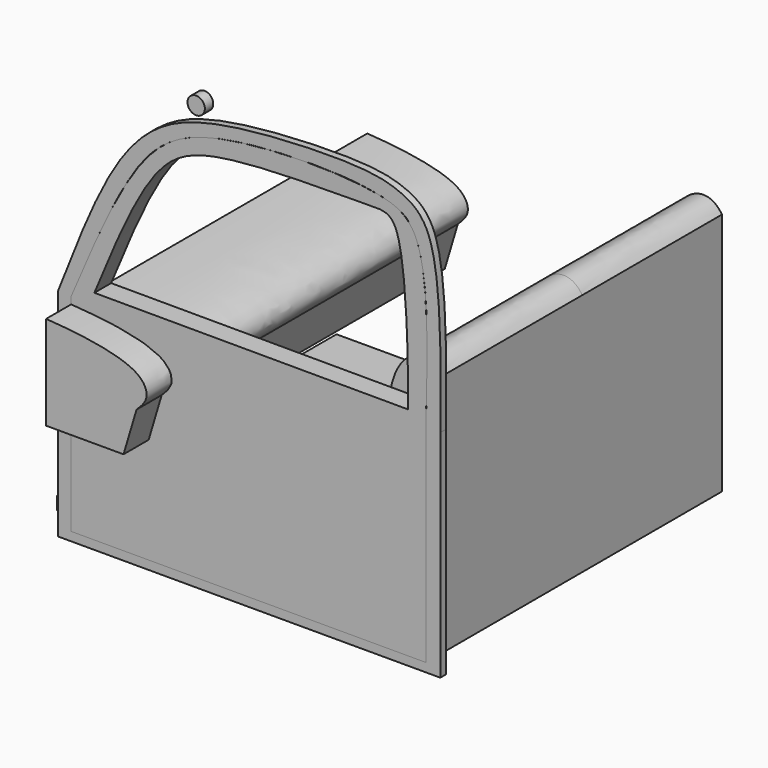
from build123d import *

# Parameters (mm, degrees)
F1_DEPTH = 50
F3_DEPTH = 115
F5_DEPTH = 6
F7_DEPTH = 2
F8_R     = 2.4825689864
F9_DEPTH = 3


with BuildPart() as f1:
    # F0 (on Front) → F1 (new body, symmetric)
    with BuildSketch(Plane.XZ):
        with BuildLine():
            Line((-52.3748546839, -26.5628732741), (-52.3748546839, -30.3173419088))
            Line((-52.3748546839, -30.3173419088), (58.0065622926, -30.3173419088))
            Line((58.0065622926, -30.3173419088), (58.0065622926, 9.8554827273))
            Line((58.0065622926, 9.8554827273), (58.0065622926, 39.5157933235))
            add(Edge.make_bspline(
                [(17.8337320685, -26.5628732741), (12.2987850228, -18.6842330707), (2.0561256493, -4.0935398057), (39.9184715576, -5.3165841483), (44.2737718214, -4.953746865), (37.2323042761, 40.1599145958), (54.5306136351, 44.9857218694), (58.0065622926, 39.5157933235)],
                knots=[0, 0, 0, 0, 0.1616552234, 0.3598685336, 0.4245980156, 0.6623038598, 0.7973775563, 0.7973775563, 0.7973775563, 0.7973775563], degree=3))
            Line((17.8337320685, -26.5628732741), (-52.3748546839, -26.5628732741))
        make_face()
    extrude(amount=F1_DEPTH, both=True)


with BuildPart() as f3:
    # F2 (on face) → F3 (new body)
    with BuildSketch(Plane(origin=(0, 50, 0), x_dir=(-1, 0, 0), z_dir=(0, 1, 0))):
        with BuildLine():
            Line((17.6460072398, 12.4836126342), (21.3691905319, 0))
            Line((21.3691905319, 0), (43.551851064, 0))
            Line((43.551851064, 0), (43.551851064, 26.9383192062))
            add(Edge.make_bspline(
                [(17.6460072398, 12.4836126342), (16.3933606924, 13.7029773667), (13.7509765364, 16.2751554931), (17.0166456197, 24.3596606637), (34.3061298742, 26.3135049454), (43.551851064, 26.9383192062)],
                knots=[0, 0, 0, 0, 0.1536034597, 0.3240174566, 0.6828172606, 0.6828172606, 0.6828172606, 0.6828172606], degree=3))
        make_face()
    extrude(amount=-F3_DEPTH)


with BuildPart() as f5:
    # F4 (on face) → F5 (new body)
    with BuildSketch(Plane.XZ.offset(50)):
        with BuildLine():
            Line((-43.551851064, -30.3173419088), (58.0065622926, -30.3173419088))
            Line((58.0065622926, -30.3173419088), (58.0065622926, 29.003277421))
            add(Edge.make_bspline(
                [(-43.551851064, 29.003277421), (-36.922845047, 44.6592747847), (-25.4385964008, 71.7820992428), (-3.7518062151, 85.038269091), (43.5736062436, 85.5189515045), (59.2989838811, 77.3551079832), (58.5136064736, 47.9727178463), (58.0065622926, 29.003277421)],
                knots=[0, 0, 0, 0, 0.2327586614, 0.4032366747, 0.6349341911, 0.7643114096, 1, 1, 1, 1], degree=3))
            Line((-43.551851064, 29.003277421), (-43.551851064, -30.3173419088))
        make_face()
        with BuildLine():
            Line((52.9380254447, 31.8191312253), (-36.922845047, 32.0068523288))
            add(Edge.make_bspline(
                [(-36.922845047, 32.0068523288), (-31.2175141555, 45.8404922054), (-21.4566188567, 69.5076051224), (-3.5567539168, 80.1005176166), (40.6849079728, 79.3030163856), (53.2273429053, 80.5116568037), (52.9460170699, 34.053291403), (52.9380254447, 31.8191312253)],
                knots=[0, 0, 0, 0, 0.2292277789, 0.3921715308, 0.6301185848, 0.7440435368, 0.9842506716, 0.9842506716, 0.9842506716, 0.9842506716], degree=3))
        make_face(mode=Mode.SUBTRACT)
    extrude(amount=F5_DEPTH)


with BuildPart() as f7:
    # F6 (on face) → F7 (new body)
    with BuildSketch(Plane.XZ.offset(56)):
        with BuildLine():
            Line((-47.3715141416, 29.003277421), (-47.3715141416, -32.8206047416))
            Line((-47.3715141416, -32.8206047416), (62.1626153588, -32.8206047416))
            Line((62.1626153588, -32.8206047416), (62.1626153588, 29.003277421))
            add(Edge.make_bspline(
                [(-47.3715141416, 29.003277421), (-42.2280699361, 42.2198476495), (-33.5244918268, 64.5845213439), (-20.2851907334, 79.6870424527), (-6.0041537363, 85.8583833125), (16.4320092077, 88.5474555911), (40.9895385441, 88.8583689047), (51.0659377242, 86.1678990592), (62.5916202731, 78.9173438118), (62.337496767, 49.3504620957), (62.1626153588, 29.003277421)],
                knots=[0, 0, 0, 0, 0.166389744, 0.2815596078, 0.3829161749, 0.5111842507, 0.6432045249, 0.7269363985, 0.8120844944, 1, 1, 1, 1], degree=3))
        make_face()
        with BuildLine():
            Line((58.0065622926, -30.3173419088), (-43.551851064, -30.3173419088))
            Line((-43.551851064, -30.3173419088), (-43.551851064, 29.003277421))
            add(Edge.make_bspline(
                [(-43.551851064, 29.003277421), (-38.3204591544, 41.3584718099), (-33.0890672449, 53.7136661988), (-27.4828879153, 63.0059549724)],
                knots=[0, 0, 0, 0, 0.1836854236, 0.1836854236, 0.1836854236, 0.1836854236], degree=3))
            add(Edge.make_bspline(
                [(-27.482887925, 63.0059549574), (-24.3302758225, 68.4157326192), (-21.4295958334, 72.0828429709), (-17.957038942, 74.9861221565)],
                knots=[0.1612719831, 0.1612719831, 0.1612719831, 0.1612719831, 0.2641550169, 0.2641550169, 0.2641550169, 0.2641550169], degree=3))
            add(Edge.make_bspline(
                [(-17.9570389343, 74.9861221627), (-14.6749515115, 77.8007594297), (-10.9529267226, 79.769390292), (-6.1962749316, 81.2096741076)],
                knots=[0.2826296593, 0.2826296593, 0.2826296593, 0.2826296593, 0.3765494898, 0.3765494898, 0.3765494898, 0.3765494898], degree=3))
            add(Edge.make_bspline(
                [(-6.1962749169, 81.2096741119), (-0.6572543837, 82.9144230389), (6.291182739, 83.8572821801), (13.6379271177, 84.3489450881)],
                knots=[0.3600816524, 0.3600816524, 0.3600816524, 0.3600816524, 0.4710528722, 0.4710528722, 0.4710528722, 0.4710528722], degree=3))
            add(Edge.make_bspline(
                [(13.6379271245, 84.3489450889), (14.6833159379, 84.4201213225), (15.7354211839, 84.4811104473), (16.7899038052, 84.5320422281)],
                knots=[0.4822944328, 0.4822944328, 0.4822944328, 0.4822944328, 0.497095641, 0.497095641, 0.497095641, 0.497095641], degree=3))
            add(Edge.make_bspline(
                [(16.7899038249, 84.532042229), (25.5336177388, 84.9666119001), (34.6291365122, 84.8388843352), (41.3751229916, 83.7522895568)],
                knots=[0.4868160775, 0.4868160775, 0.4868160775, 0.4868160775, 0.6172415909, 0.6172415909, 0.6172415909, 0.6172415909], degree=3))
            add(Edge.make_bspline(
                [(41.37512301, 83.7522895553), (42.0655087346, 83.6561100972), (46.098220428, 83.0299538744), (49.0483928027, 82.151915481), (50.9693511028, 80.9262823084)],
                knots=[0.6219322123, 0.6219322123, 0.6219322123, 0.6219322123, 0.6349341911, 0.7009002717, 0.7009002717, 0.7009002717, 0.7009002717], degree=3))
            add(Edge.make_bspline(
                [(50.9693510968, 80.9262823136), (52.0995470946, 80.3163335876), (52.7575997639, 79.717319044), (53.4766927149, 78.6703378075)],
                knots=[0.7004093349, 0.7004093349, 0.7004093349, 0.7004093349, 0.748705673, 0.748705673, 0.748705673, 0.748705673], degree=3))
            add(Edge.make_bspline(
                [(53.4766927076, 78.6703378143), (54.1335263791, 77.8434472478), (55.6431087364, 75.2643661502), (56.6393650354, 71.4821342037), (57.105223434, 68.7441786872)],
                knots=[0.7339912193, 0.7339912193, 0.7339912193, 0.7339912193, 0.7643114096, 0.8150763436, 0.8150763436, 0.8150763436, 0.8150763436], degree=3))
            add(Edge.make_bspline(
                [(57.1052234363, 68.7441786706), (58.5760757583, 60.7983080581), (58.4878333308, 48.6087414253), (58.1809962005, 35.7889954003)],
                knots=[0.834197512, 0.834197512, 0.834197512, 0.834197512, 0.9752539568, 0.9752539568, 0.9752539568, 0.9752539568], degree=3))
            add(Edge.make_bspline(
                [(58.1809962004, 35.7889953986), (58.1277911102, 33.5386668791), (58.0671767014, 31.2709721501), (58.0065622926, 29.003277421)],
                knots=[0.9718246948, 0.9718246948, 0.9718246948, 0.9718246948, 1, 1, 1, 1], degree=3))
            Line((58.0065622926, 29.003277421), (58.0065622926, -30.3173419088))
        make_face(mode=Mode.SUBTRACT)
    extrude(amount=-F7_DEPTH)


with BuildPart() as f9:
    # F8 (on Front) → F9 (new body)
    with BuildSketch(Plane.XZ):
        with Locations((-50.1643046737, 53.3854961395)):
            Circle(F8_R)
    extrude(amount=F9_DEPTH)


solid = Compound([f1.part, f3.part, f5.part, f7.part, f9.part])
